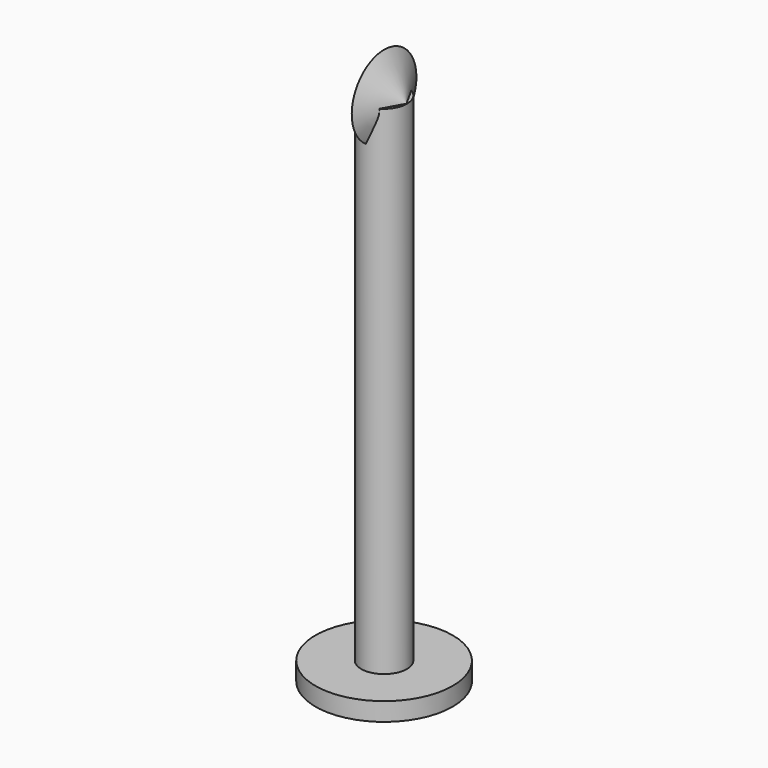
from build123d import *

# Parameters (mm, degrees)
F0_R     = 7.5
F1_DEPTH = 2
F2_R     = 2.5
F3_DEPTH = 56.4


with BuildPart() as f1:
    # F0 (on Top) → F1 (new body)
    with BuildSketch(Plane.XY):
        Circle(F0_R)
    extrude(amount=F1_DEPTH)

    # F2 (on Top) → F3 (join)
    with BuildSketch(Plane.XY):
        Circle(F2_R)
    extrude(amount=F3_DEPTH)

    # F4 (on Front) → F5 (revolve)
    with BuildSketch(Plane.XZ):
        Polygon((-2.470695, 56.377843), (0, 56.377843), (2.45018, 56.377843), (0, 60.79717), align=None)
    revolve(axis=Axis((1.22509, 0, 56.377843), (1, 0, 0)))


solid = f1.part
